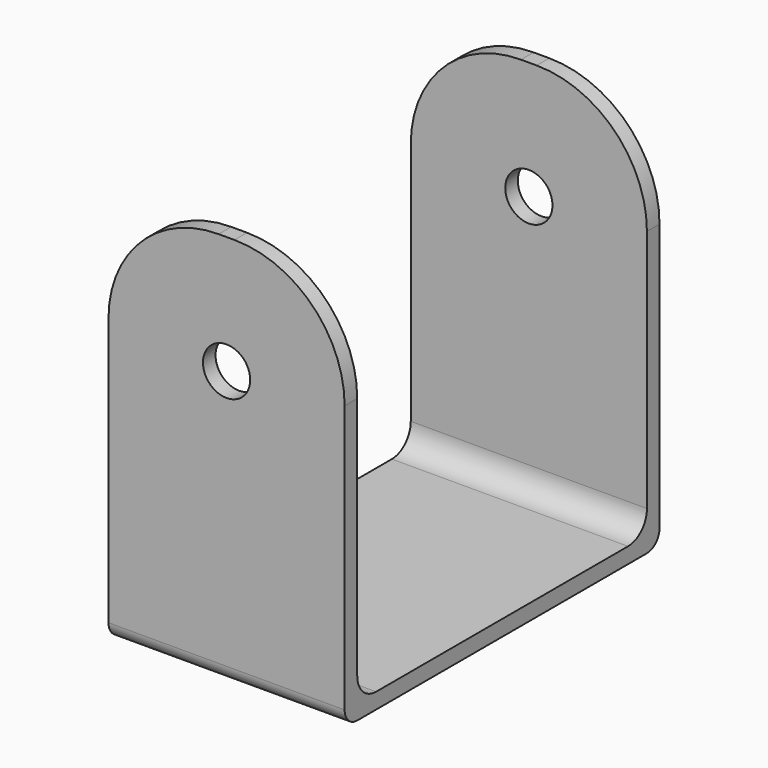
from build123d import *

# Parameters (mm, degrees)
PAD021_DEPTH  = 30
SKETCH003_R   = 3
HOLE004_DEPTH = 50.001
FILLET008_R   = 14
FILLET009_R   = 3
FILLET010_R   = 2


with BuildPart() as part:
    # Sketch002 → Pad021 (new body)
    with BuildSketch(Plane.YZ):
        Polygon((-25, 50), (-23, 50), (-23, 2), (23, 2), (23, 50), (25, 50), (25, 0), (-25, 0), align=None)
    extrude(amount=PAD021_DEPTH)

    # Sketch003 → Hole004 (cut, through all)
    with BuildSketch(Plane(origin=(0, -25, 0), x_dir=(0, 0, -1), z_dir=(0, -1, 0))):
        with Locations((-35, 15)):
            Circle(SKETCH003_R)
    extrude(amount=-HOLE004_DEPTH, mode=Mode.SUBTRACT)

    # Fillet008
    fillet008_edges = [part.edges().sort_by_distance(p)[0] for p in [
        (30, 24, 50),
        (30, -24, 50),
        (0, -24, 50),
        (0, 24, 50),
    ]]
    fillet(fillet008_edges, radius=FILLET008_R)

    # Fillet009
    fillet009_edges = [part.edges().sort_by_distance(p)[0] for p in [
        (15, -23, 2),
        (15, 23, 2),
    ]]
    fillet(fillet009_edges, radius=FILLET009_R)

    # Fillet010
    fillet010_edges = [part.edges().sort_by_distance(p)[0] for p in [
        (15, 25, 0),
        (15, -25, 0),
    ]]
    fillet(fillet010_edges, radius=FILLET010_R)


solid = part.part
